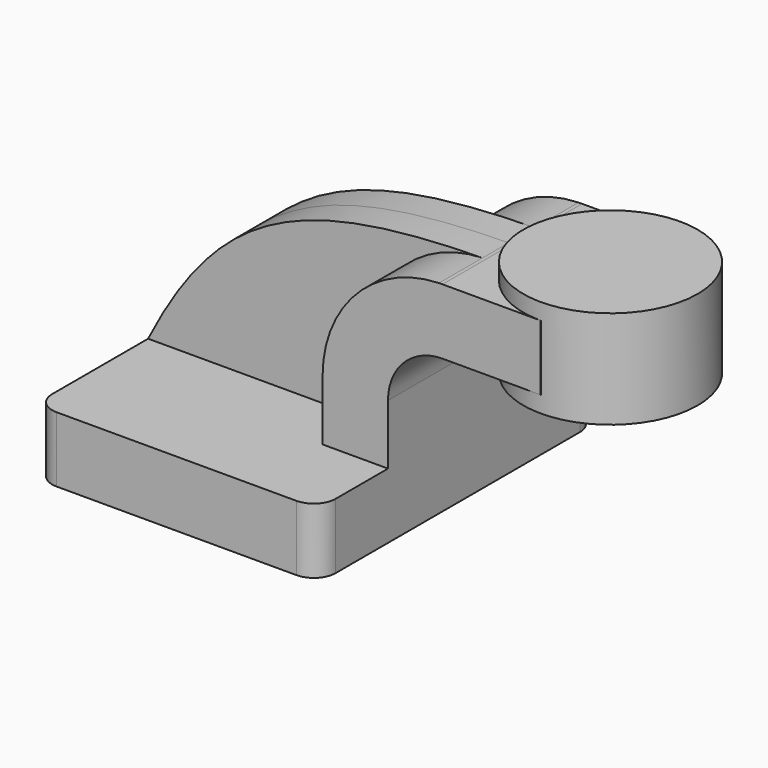
from build123d import *

# Parameters (mm, degrees)
F1_DEPTH = 50.8
F0_W     = 25.4164007187
F0_H     = 19.05
F2_DEPTH = 25.4
F3_DEPTH = 9.525
F5_R     = 6.35


with BuildPart() as f1:
    # F0 (on Front) → F1 (new body, symmetric)
    with BuildSketch(Plane.XZ):
        Polygon((-41.275, -9.525), (41.275, -9.525), (41.275, 9.525), (22.225, 9.525), (-41.275, 9.525), align=None)
    extrude(amount=F1_DEPTH, both=True)

    # F0 (on Front) → F2 (join, symmetric)
    with BuildSketch(Plane.XZ):
        with BuildLine():
            Line((22.225, 9.525), (41.275, 9.525))
            Line((41.275, 9.525), (41.275, 27.0002))
            ThreePointArc((41.275, 27.0002), (45.9246798487, 38.2255201513), (57.15, 42.8752))
            Line((57.15, 42.8752), (60.325, 42.8752))
            Line((60.325, 42.8752), (60.325, 61.9252))
            Line((60.325, 61.9252), (57.15, 61.9252))
            add(Edge.make_bspline(
                [(56.1143145962, 61.9098402265), (56.4583144045, 61.9153653172), (56.8035404998, 61.920483285), (57.15, 61.9252)],
                knots=[110.7818474103, 110.7818474103, 110.7818474103, 110.7818474103, 111.5045361635, 111.5045361635, 111.5045361635, 111.5045361635], degree=3))
            ThreePointArc((56.1143145962, 61.9098402265), (32.0908007138, 51.3269785811), (22.225, 27.0002))
            Line((22.225, 27.0002), (22.225, 9.525))
        make_face()
        with Locations((73.0332003593, 52.4002)):
            Rectangle(F0_W, F0_H)
    extrude(amount=F2_DEPTH, both=True)

    # F0 (on Front) → F3 (join, symmetric)
    with BuildSketch(Plane.XZ):
        with BuildLine():
            add(Edge.make_bspline(
                [(-41.275, 9.525), (-20.5344548104, 50.6492902635), (3.382161087, 61.0628922855), (56.1143145962, 61.9098402265)],
                knots=[0, 0, 0, 0, 110.7818474103, 110.7818474103, 110.7818474103, 110.7818474103], degree=3))
            Line((-41.275, 9.525), (22.225, 9.525))
            Line((22.225, 9.525), (22.225, 27.0002))
            ThreePointArc((22.225, 27.0002), (32.0908007138, 51.3269785811), (56.1143145962, 61.9098402265))
        make_face()
    extrude(amount=F3_DEPTH, both=True)

    # F5
    f5_edges = [f1.edges().sort_by_distance(p)[0] for p in [
        (41.275, -50.8, 0),
        (-41.275, -50.8, 0),
        (-41.275, 50.8, 0),
        (41.275, 50.8, 0),
    ]]
    fillet(f5_edges, radius=F5_R)


with BuildPart() as f4:
    # F0 (on Front) → F4 (revolve)
    with BuildSketch(Plane.XZ):
        Polygon((85.7414007187, 61.9252), (85.7414007187, 42.8752), (85.7414007187, 38.1), (111.125, 38.1), (111.125, 66.675), (85.7414007187, 66.675), align=None)
    revolve(axis=Axis((85.7414007187, 0, 52.3875), (0, 0, -1)))


solid = Compound([f1.part, f4.part])
